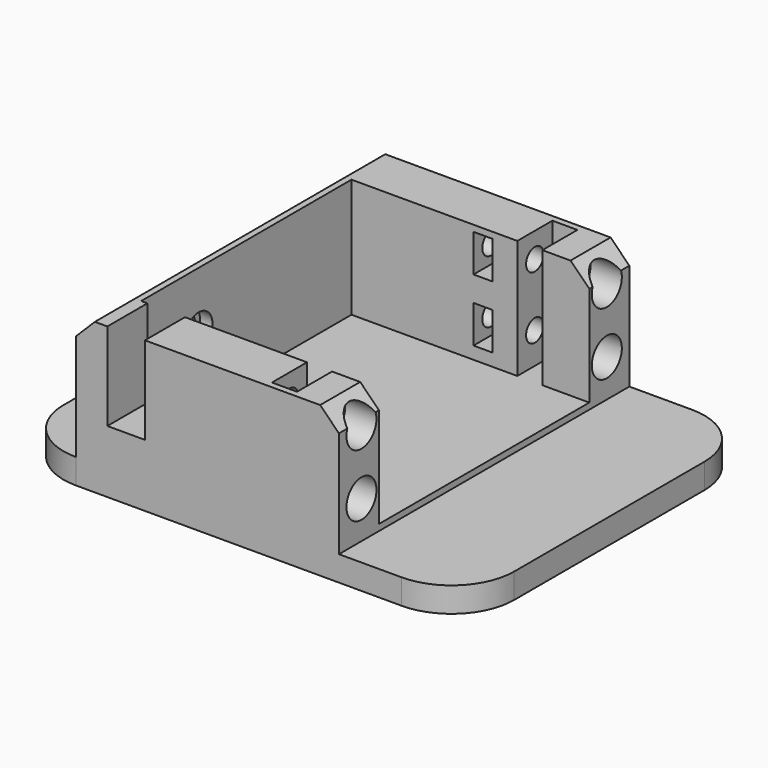
from build123d import *

# Parameters (mm, degrees)
BOX017_W                = 6
BOX017_H                = 36
BOX017_DEPTH            = 23
CYLINDER009_R           = 2.75
CYLINDER009_DEPTH       = 74.5
CYLINDER009_PITCH_ANGLE = 90
CYLINDER006_R           = 1.75
CYLINDER006_DEPTH       = 21.5
CYLINDER006_PITCH_ANGLE = 90
CYLINDER007_R           = 3
CYLINDER007_DEPTH       = 21.5
CYLINDER007_PITCH_ANGLE = 90
BOX006_W                = 3
BOX006_H                = 56
BOX006_DEPTH            = 6
BOX007_W                = 3
BOX007_H                = 56
BOX007_DEPTH            = 6
BOX005_W                = 4
BOX005_H                = 56
BOX005_DEPTH            = 21
CYLINDER_R              = 1.75
CYLINDER_DEPTH          = 74.5
CYLINDER_PITCH_ANGLE    = 90
BOX003_W                = 28
BOX003_H                = 88
BOX003_DEPTH            = 38
BOX002_W                = 28
BOX002_H                = 88
BOX002_DEPTH            = 38
BOX001_W                = 47
BOX001_H                = 42
BOX001_DEPTH            = 25
BOX_W                   = 72
BOX_H                   = 58
BOX_DEPTH               = 24
FILLET_R                = 10
CHAMFER_SIZE            = 3


with BuildPart() as cube024:
    # Box017 → Box017 (new body)
    with BuildSketch(Plane(origin=(0, 19, 7), x_dir=(1, 0, 0), z_dir=(0, 0, 1))):
        with Locations((3, 18)):
            Rectangle(BOX017_W, BOX017_H)
    extrude(amount=BOX017_DEPTH)


with BuildPart() as joint_d013:
    # Cylinder009 → Cylinder009 (new body)
    with BuildSketch(Plane.XY):
        Circle(CYLINDER009_R)
    extrude(amount=CYLINDER009_DEPTH)


with BuildPart() as joint_d013_1:
    # Cylinder009 pitch: moved
    add(joint_d013.part.rotate(Axis((0, 0, 0), (0, 1, 0)), CYLINDER009_PITCH_ANGLE))


with BuildPart() as joint_d013_2:
    # Cylinder009 placement: moved
    add(joint_d013_1.part.moved(Location((-3, 9.5, 12))))


with BuildPart() as joint_d010:
    # Cylinder006 → Cylinder006 (new body)
    with BuildSketch(Plane.XY):
        Circle(CYLINDER006_R)
    extrude(amount=CYLINDER006_DEPTH)


with BuildPart() as joint_d010_1:
    # Cylinder006 pitch: moved
    add(joint_d010.part.rotate(Axis((0, 0, 0), (0, 1, 0)), CYLINDER006_PITCH_ANGLE))


with BuildPart() as joint_d010_2:
    # Cylinder006 placement: moved
    add(joint_d010_1.part.moved(Location((16, -24.5, 7))))


with BuildPart() as joint_d011:
    # Cylinder007 → Cylinder007 (new body)
    with BuildSketch(Plane.XY):
        Circle(CYLINDER007_R)
    extrude(amount=CYLINDER007_DEPTH)


with BuildPart() as joint_d011_1:
    # Cylinder007 pitch: moved
    add(joint_d011.part.rotate(Axis((0, 0, 0), (0, 1, 0)), CYLINDER007_PITCH_ANGLE))


with BuildPart() as joint_d011_2:
    # Cylinder007 placement: moved
    add(joint_d011_1.part.moved(Location((32, -24.5, 7))))


with BuildPart() as fusion001:
    # Fusion001 base: copy of Joint-D011
    add(joint_d011_2.part)

    # Fusion001: union Joint-D010
    add(joint_d010_2.part)


with BuildPart() as fusion002:
    # Fusion002 base: copy of Joint-D011
    add(joint_d011_2.part)

    # Fusion002: union Joint-D010
    add(joint_d010_2.part)


with BuildPart() as fusion002_1:
    # Fusion002 placement: moved
    add(fusion002.part.moved(Location((0, 0, 10))))


with BuildPart() as fusion003:
    # Fusion003 base: copy of Joint-D011
    add(joint_d011_2.part)

    # Fusion003: union Joint-D010
    add(joint_d010_2.part)


with BuildPart() as fusion003_1:
    # Fusion003 placement: moved
    add(fusion003.part.moved(Location((0, 49, 0))))


with BuildPart() as fusion004:
    # Fusion004 base: copy of Joint-D011
    add(joint_d011_2.part)

    # Fusion004: union Joint-D010
    add(joint_d010_2.part)


with BuildPart() as fusion004_1:
    # Fusion004 placement: moved
    add(fusion004.part.moved(Location((0, 49, 10))))


with BuildPart() as cube007:
    # Box006 → Box006 (new body)
    with BuildSketch(Plane(origin=(18.5, -28, 4), x_dir=(1, 0, 0), z_dir=(0, 0, 1))):
        with Locations((1.5, 28)):
            Rectangle(BOX006_W, BOX006_H)
    extrude(amount=BOX006_DEPTH)


with BuildPart() as cube008:
    # Box007 → Box007 (new body)
    with BuildSketch(Plane(origin=(18.5, -28, 14), x_dir=(1, 0, 0), z_dir=(0, 0, 1))):
        with Locations((1.5, 28)):
            Rectangle(BOX007_W, BOX007_H)
    extrude(amount=BOX007_DEPTH)


with BuildPart() as cube006:
    # Box005 → Box005 (new body)
    with BuildSketch(Plane(origin=(25.5, -28, 2), x_dir=(1, 0, 0), z_dir=(0, 0, 1))):
        with Locations((2, 28)):
            Rectangle(BOX005_W, BOX005_H)
    extrude(amount=BOX005_DEPTH)


with BuildPart() as joint_d005:
    # Cylinder → Cylinder (new body)
    with BuildSketch(Plane.XY):
        Circle(CYLINDER_R)
    extrude(amount=CYLINDER_DEPTH)


with BuildPart() as joint_d005_1:
    # Cylinder pitch: moved
    add(joint_d005.part.rotate(Axis((0, 0, 0), (0, 1, 0)), CYLINDER_PITCH_ANGLE))


with BuildPart() as joint_d005_2:
    # Cylinder placement: moved
    add(joint_d005_1.part.moved(Location((-22, 9.5, 12))))


with BuildPart() as cube003:
    # Box003 → Box003 (new body)
    with BuildSketch(Plane(origin=(-33, -45, 1), x_dir=(1, 0, 0), z_dir=(0, 0, 1))):
        with Locations((14, 44)):
            Rectangle(BOX003_W, BOX003_H)
    extrude(amount=BOX003_DEPTH)


with BuildPart() as cube002:
    # Box002 → Box002 (new body)
    with BuildSketch(Plane(origin=(37, -45, 1), x_dir=(1, 0, 0), z_dir=(0, 0, 1))):
        with Locations((14, 44)):
            Rectangle(BOX002_W, BOX002_H)
    extrude(amount=BOX002_DEPTH)


with BuildPart() as cube001:
    # Box001 → Box001 (new body)
    with BuildSketch(Plane(origin=(-1, -21, 2), x_dir=(1, 0, 0), z_dir=(0, 0, 1))):
        with Locations((23.5, 21)):
            Rectangle(BOX001_W, BOX001_H)
    extrude(amount=BOX001_DEPTH)


with BuildPart() as pie_d:
    # Box → Box (new body)
    with BuildSketch(Plane(origin=(-15, -29, -3), x_dir=(1, 0, 0), z_dir=(0, 0, 1))):
        with Locations((36, 29)):
            Rectangle(BOX_W, BOX_H)
    extrude(amount=BOX_DEPTH)

    # Cut: cut Cube001
    add(cube001.part, mode=Mode.SUBTRACT)

    # Cut001: cut Cube002
    add(cube002.part, mode=Mode.SUBTRACT)

    # Cut002: cut Cube003
    add(cube003.part, mode=Mode.SUBTRACT)

    # Fillet
    fillet_edges = [pie_d.edges().sort_by_distance(p)[0] for p in [
        (-15, -29, -1),
        (-15, 29, -1),
        (57, -29, -1),
        (57, 29, -1),
    ]]
    fillet(fillet_edges, radius=FILLET_R)

    # Chamfer
    chamfer_edges = [pie_d.edges().sort_by_distance(p)[0] for p in [
        (-5, 0, 21),
        (37, 25, 21),
        (37, -25, 21),
    ]]
    chamfer(chamfer_edges, length=CHAMFER_SIZE)

    # Cut007: cut Joint-D005
    add(joint_d005_2.part, mode=Mode.SUBTRACT)

    # Cut008: cut Cube006
    add(cube006.part, mode=Mode.SUBTRACT)

    # Cut009: cut Cube008
    add(cube008.part, mode=Mode.SUBTRACT)

    # Cut010: cut Cube007
    add(cube007.part, mode=Mode.SUBTRACT)

    # Cut011: cut Fusion004
    add(fusion004_1.part, mode=Mode.SUBTRACT)

    # Cut012: cut Fusion003
    add(fusion003_1.part, mode=Mode.SUBTRACT)

    # Cut013: cut Fusion002
    add(fusion002_1.part, mode=Mode.SUBTRACT)

    # Cut014: cut Fusion001
    add(fusion001.part, mode=Mode.SUBTRACT)

    # Cut015: cut Joint-D013
    add(joint_d013_2.part, mode=Mode.SUBTRACT)

    # Cut022: cut Cube024
    add(cube024.part, mode=Mode.SUBTRACT)


with BuildPart() as pie_d_1:
    # Cut022 placement: moved
    add(pie_d.part.moved(Location((0, 0, 1))))


with BuildPart() as pie_i:
    # Part__Mirroring004: instance of pie-D
    add(pie_d_1.part.mirror(Plane(origin=(0, 0, 0), x_dir=(1, 0, 0), z_dir=(0, 1, 0))))


with BuildPart() as pie_i_1:
    # Part__Mirroring004 placement: moved
    add(pie_i.part.moved(Location((0, 72, 0))))


solid = pie_i_1.part
